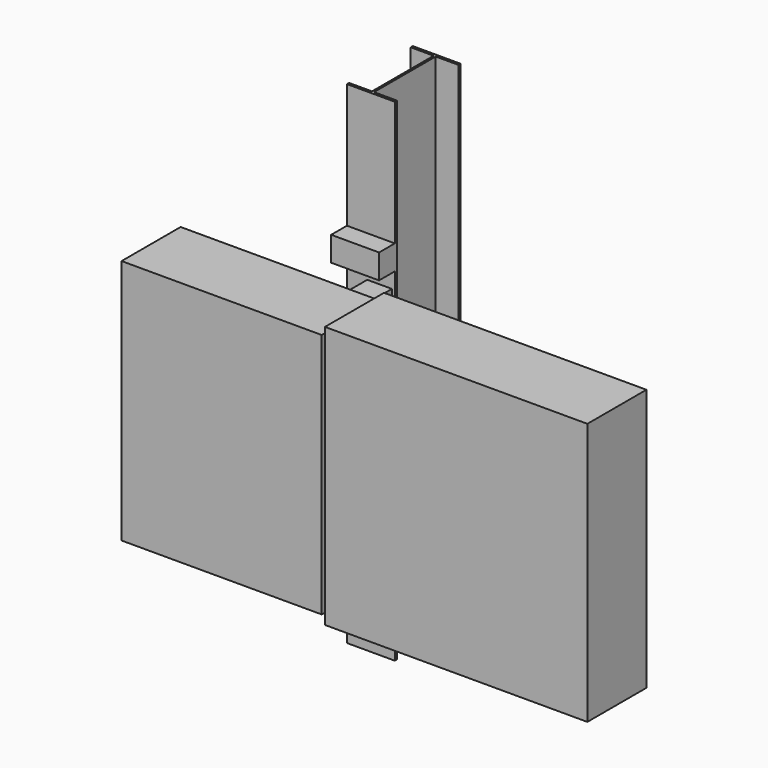
from build123d import *

# Parameters (mm, degrees)
F1_DEPTH  = 305
F3_DEPTH  = 590
F5_D      = 9
F5_2_D    = 9
F6_W      = 610
F6_H      = 750
F7_DEPTH  = 200
F8_DEPTH  = 25
F9_W      = 800
F9_H      = 800
F10_DEPTH = 225
F11_W     = 146
F11_H     = 251
F12_DEPTH = 750
F13_W     = 139.7
F13_H     = 235
F14_DEPTH = 1500.001
F15_W     = 146
F15_H     = 75
F15_H_2   = 60
F16_DEPTH = 60
F18_DEPTH = 256


with BuildPart() as f1:
    # F0 (on Right) → F1 (new body, symmetric)
    with BuildSketch(Plane.YZ):
        with BuildLine():
            Line((60, -295), (0, -295))
            Line((0, -295), (0, -355))
            ThreePointArc((0, -355), (2.8284271247, -353.8284271247), (4, -351))
            Line((4, -351), (4, -303))
            ThreePointArc((4, -303), (5.1715728753, -300.1715728753), (8, -299))
            Line((8, -299), (56, -299))
            ThreePointArc((56, -299), (58.8284271247, -297.8284271247), (60, -295))
        make_face()
    extrude(amount=F1_DEPTH, both=True)

    # F5 (through all)
    with Locations(Plane.XZ):
        with Locations((-230, 325), (-80, 325), (80, 325), (230, 325), (-80, -325), (80, -325), (-230, -325), (230, -325)):
            Hole(F5_D / 2)


with BuildPart() as f1b:
    # F0 (on Right) → F1, piece 2 (new body, symmetric)
    with BuildSketch(Plane.YZ):
        with BuildLine():
            ThreePointArc((60, 295), (58.8284271247, 297.8284271247), (56, 299))
            Line((56, 299), (8, 299))
            ThreePointArc((8, 299), (5.1715728753, 300.1715728753), (4, 303))
            Line((4, 303), (4, 351))
            ThreePointArc((4, 351), (2.8284271247, 353.8284271247), (0, 355))
            Line((0, 355), (0, 295))
            Line((0, 295), (60, 295))
        make_face()
    extrude(amount=F1_DEPTH, both=True)

    # F5#2 (through all)
    with Locations(Plane.XZ):
        with Locations((-230, 325), (-80, 325), (80, 325), (230, 325), (-80, -325), (80, -325), (-230, -325), (230, -325)):
            Hole(F5_2_D / 2)


with BuildPart() as f3:
    # F2 (on face) → F3 (new body, through all)
    with BuildSketch(Plane.XY.offset(-295)):
        with BuildLine():
            ThreePointArc((135, 60), (132.1715728753, 58.8284271247), (131, 56))
            Line((131, 56), (131, 8))
            ThreePointArc((131, 8), (129.8284271247, 5.1715728753), (127, 4))
            Line((127, 4), (79, 4))
            ThreePointArc((79, 4), (76.1715728753, 2.8284271247), (75, 0))
            Line((75, 0), (135, 0))
            Line((135, 0), (135, 60))
        make_face()
    extrude(amount=F3_DEPTH)


with BuildPart() as f3b:
    # F2 (on face) → F3, piece 2 (new body, through all)
    with BuildSketch(Plane.XY.offset(-295)):
        with BuildLine():
            Line((-135, 0), (-75, 0))
            ThreePointArc((-75, 0), (-76.1715728753, 2.8284271247), (-79, 4))
            Line((-79, 4), (-127, 4))
            ThreePointArc((-127, 4), (-129.8284271247, 5.1715728753), (-131, 8))
            Line((-131, 8), (-131, 56))
            ThreePointArc((-131, 56), (-132.1715728753, 58.8284271247), (-135, 60))
            Line((-135, 60), (-135, 0))
        make_face()
    extrude(amount=F3_DEPTH)


with BuildPart() as f7:
    # F6 (on face) → F7 (new body)
    with BuildSketch(Plane.XZ):
        Rectangle(F6_W, F6_H)
    extrude(amount=F7_DEPTH)

    # F8 (add): a face of the model
    f8_faces = [f7.faces().sort_by_distance(p)[0] for p in [
        (0, -200, 0),
    ]]
    extrude(f8_faces, amount=F8_DEPTH)


with BuildPart() as f10:
    # F9 (on face) → F10 (new body, through all)
    with BuildSketch(Plane.XZ.offset(225)):
        with Locations((715, 0)):
            Rectangle(F9_W, F9_H)
    extrude(amount=-F10_DEPTH)


with BuildPart() as f12:
    # F11 (on Top) → F12 (new body, symmetric)
    with BuildSketch(Plane.XY):
        with Locations((67, 385.5)):
            Rectangle(F11_W, F11_H)
    extrude(amount=F12_DEPTH, both=True)

    # F13 (on face) → F14 (cut, through all)
    with BuildSketch(Plane.XY.offset(750)):
        with Locations((140, 385.5)):
            Rectangle(F13_W, F13_H)
        with Locations((-6, 385.5)):
            Rectangle(F13_W, F13_H)
    extrude(amount=-F14_DEPTH, mode=Mode.SUBTRACT)

    # F15 (on face) → F16 (join)
    with BuildSketch(Plane.XZ.offset(-260)):
        with Locations((67, 332.5)):
            Rectangle(F15_W, F15_H)
        with Locations((67, 85)):
            Rectangle(F15_W, F15_H_2)
        with Locations((67, -175)):
            Rectangle(F15_W, F15_H_2)
    extrude(amount=F16_DEPTH)


with BuildPart() as f18:
    # F17 (on face) → F18 (new body, through all)
    with BuildSketch(Plane(origin=(0, 4, 0), x_dir=(-1, 0, 0), z_dir=(0, 1, 0))):
        with BuildLine():
            Line((-131, 245), (-131, 145))
            ThreePointArc((-131, 145), (-126.7573593129, 146.7573593129), (-125, 151))
            Line((-125, 151), (-125, 233))
            ThreePointArc((-125, 233), (-123.2426406871, 237.2426406871), (-119, 239))
            Line((-119, 239), (-62, 239))
            ThreePointArc((-62, 239), (-57.7573593129, 240.7573593129), (-56, 245))
            Line((-56, 245), (-131, 245))
        make_face()
    extrude(amount=F18_DEPTH)


with BuildPart() as f18b:
    # F17 (on face) → F18, piece 2 (new body, through all)
    with BuildSketch(Plane(origin=(0, 4, 0), x_dir=(-1, 0, 0), z_dir=(0, 1, 0))):
        with BuildLine():
            Line((-125, -99), (-125, -17))
            ThreePointArc((-125, -17), (-123.2426406871, -12.7573593129), (-119, -11))
            Line((-119, -11), (-62, -11))
            ThreePointArc((-62, -11), (-57.7573593129, -9.2426406871), (-56, -5))
            Line((-56, -5), (-131, -5))
            Line((-131, -5), (-131, -105))
            ThreePointArc((-131, -105), (-126.7573593129, -103.2426406871), (-125, -99))
        make_face()
    extrude(amount=F18_DEPTH)


solid = Compound([f1.part, f1b.part, f3.part, f3b.part, f7.part, f10.part, f12.part, f18.part, f18b.part])
